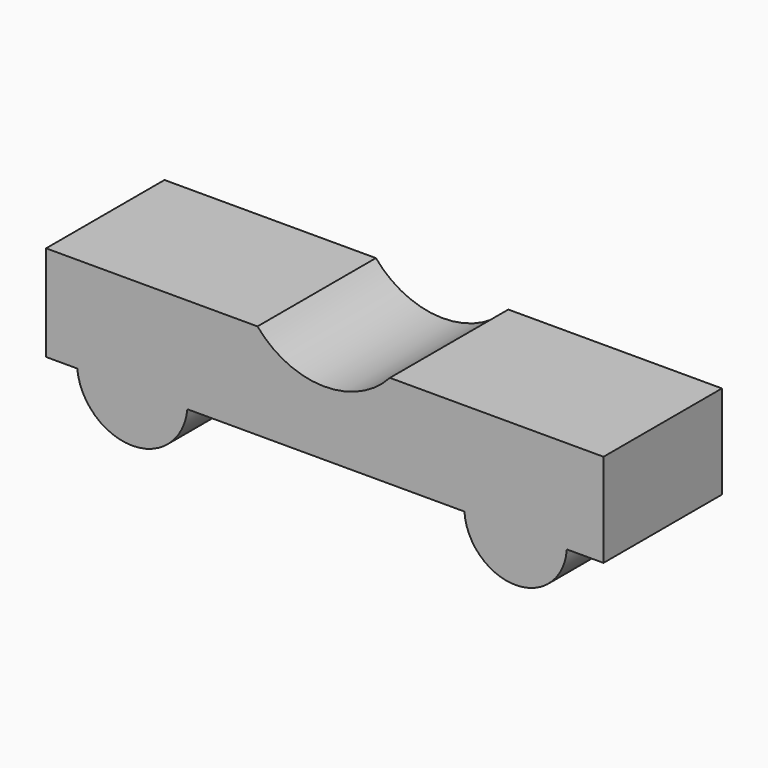
from build123d import *

# Parameters (mm, degrees)
F1_DEPTH = 25.4


with BuildPart() as f1:
    # F0 (on Front) → F1 (new body)
    with BuildSketch(Plane.XZ):
        with BuildLine():
            Line((47.452234, -9.261301), (47.452234, 6.77889))
            Line((47.452234, 6.77889), (16.51758, 6.77889))
            Line((16.51758, 6.77889), (10.788937, 6.77889))
            ThreePointArc((10.788937, 6.77889), (-0.65962, 1.80786), (-11.934666, 7.160799))
            Line((-11.934666, 7.160799), (-17.663306, 7.160799))
            Line((-17.663306, 7.160799), (-48.216049, 7.160799))
            Line((-48.216049, 7.160799), (-48.216049, -9.261301))
            Line((-48.216049, -9.261301), (-42.869318, -9.261301))
            ThreePointArc((-42.869318, -9.261301), (-33.417064, -4.032086), (-23.964809, -9.261301))
            Line((-23.964809, -9.261301), (23.582902, -9.261301))
            ThreePointArc((23.582902, -9.261301), (32.366816, -4.289359), (41.15073, -9.261301))
            Line((41.15073, -9.261301), (47.452234, -9.261301))
        make_face()
        with BuildLine():
            ThreePointArc((23.582902, -9.261301), (32.366816, -17.508878), (41.15073, -9.261301))
            ThreePointArc((41.15073, -9.261301), (32.366816, -4.289359), (23.582902, -9.261301))
        make_face()
        with BuildLine():
            ThreePointArc((-42.869318, -9.261301), (-33.417064, -17.845475), (-23.964809, -9.261301))
            ThreePointArc((-23.964809, -9.261301), (-33.417064, -4.032086), (-42.869318, -9.261301))
        make_face()
    extrude(amount=F1_DEPTH)


solid = f1.part
